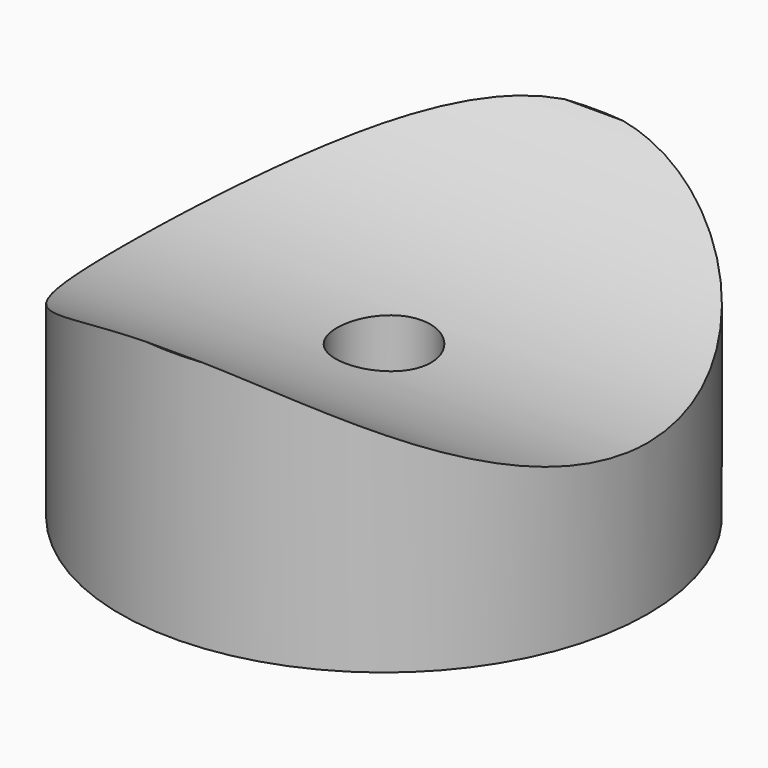
from build123d import *

# Parameters (mm, degrees)
F0_R          = 13.335
F0_R_2        = 5.715
F0_R_3        = 2.38125
F1_DEPTH      = 12.7
F2_DEPTH      = 2.54
F3_R          = 19.8268343705
F4_DEPTH      = 13.336
F4_DEPTH_BACK = 13.336


with BuildPart() as f1:
    # F0 (on Top) → F1 (new body)
    with BuildSketch(Plane.XY):
        Circle(F0_R)
        Circle(F0_R_2, mode=Mode.SUBTRACT)
        Circle(F0_R_2)
        Circle(F0_R_3, mode=Mode.SUBTRACT)
    extrude(amount=F1_DEPTH)

    # F0 (on Top) → F2 (cut)
    with BuildSketch(Plane.XY):
        Circle(F0_R_2)
        Circle(F0_R_3, mode=Mode.SUBTRACT)
    extrude(amount=F2_DEPTH, mode=Mode.SUBTRACT)

    # F3 (on Right) → F4 (cut, two sides)
    with BuildSketch(Plane.YZ) as f4_sk:
        with Locations((0, 27.4468343705)):
            Circle(F3_R)
    extrude(amount=-F4_DEPTH, mode=Mode.SUBTRACT)
    extrude(f4_sk.sketch, amount=F4_DEPTH_BACK, mode=Mode.SUBTRACT)


solid = f1.part
